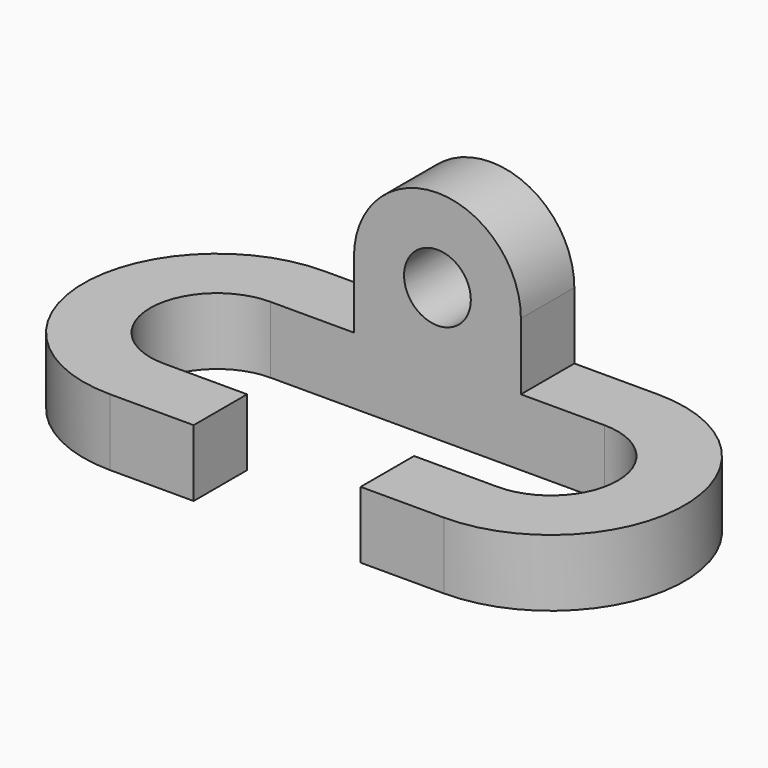
from build123d import *

# Parameters (mm, degrees)
F1_DEPTH = 12.7
F2_R     = 6.35
F3_DEPTH = 12.7


with BuildPart() as f1:
    # F0 (on Top) → F1 (new body)
    with BuildSketch(Plane.XY):
        with BuildLine():
            Line((15.875, -25.4), (31.75, -25.4))
            ThreePointArc((31.75, -25.4), (57.15, 0), (31.75, 25.4))
            Line((31.75, 25.4), (4.954765, 25.4))
            Line((4.954765, 25.4), (-4.954765, 25.4))
            Line((-4.954765, 25.4), (-31.75, 25.4))
            ThreePointArc((-31.75, 25.4), (-57.15, 0), (-31.75, -25.4))
            Line((-31.75, -25.4), (-15.875, -25.4))
            Line((-15.875, -25.4), (-15.875, -12.7))
            Line((-15.875, -12.7), (-31.75, -12.7))
            ThreePointArc((-31.75, -12.7), (-44.45, 0), (-31.75, 12.7))
            Line((-31.75, 12.7), (-12.270298, 12.7))
            Line((-12.270298, 12.7), (12.270298, 12.7))
            Line((12.270298, 12.7), (31.75, 12.7))
            ThreePointArc((31.75, 12.7), (44.45, 0), (31.75, -12.7))
            Line((31.75, -12.7), (15.875, -12.7))
            Line((15.875, -12.7), (15.875, -25.4))
        make_face()
    extrude(amount=F1_DEPTH)

    # F2 (on face) → F3 (join)
    with BuildSketch(Plane.XZ.offset(-12.7)):
        with BuildLine():
            Line((15.875, 12.7), (15.875, 25.4))
            ThreePointArc((15.875, 25.4), (0, 41.275), (-15.875, 25.4))
            Line((-15.875, 25.4), (-15.875, 12.7))
            Line((-15.875, 12.7), (15.875, 12.7))
        make_face()
        with Locations((0, 25.4)):
            Circle(F2_R, mode=Mode.SUBTRACT)
    extrude(amount=-F3_DEPTH)


solid = f1.part
